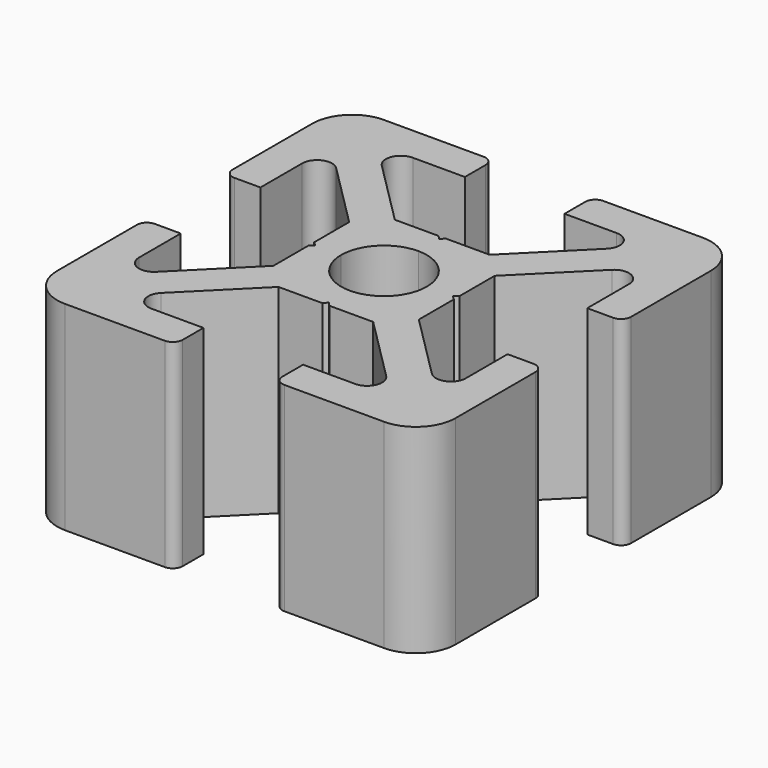
from build123d import *

# Parameters (mm, degrees)
PAD_DEPTH = 10


with BuildPart() as part:
    # CopySketch029 → Pad (new body)
    with BuildSketch(Plane.XY):
        with BuildLine():
            Line((-2.377208, 3.65), (-5.646878, 6.91967))
            ThreePointArc((-5.116548, 8.2), (-5.809457, 7.737013), (-5.646878, 6.91967))
            Line((-5.116548, 8.2), (-2.5, 8.2))
            Line((-2.5, 9.5), (-2.5, 8.2))
            ThreePointArc((-2.5, 9.5), (-2.646447, 9.853553), (-3, 10))
            Line((-3, 10), (-8, 10))
            ThreePointArc((-8, 10), (-9.414214, 9.414214), (-10, 8))
            Line((-10, 8), (-10, 3))
            ThreePointArc((-10, 3), (-9.853553, 2.646447), (-9.5, 2.5))
            Line((-9.5, 2.5), (-8.2, 2.5))
            Line((-8.2, 2.5), (-8.2, 5.116548))
            ThreePointArc((-6.91967, 5.646878), (-7.737013, 5.809457), (-8.2, 5.116548))
            Line((-6.91967, 5.646878), (-3.65, 2.377208))
            Line((-3.65, 2.377208), (-3.65, 0.177208))
            Line((-3.65, 0.177208), (-3.45, 0))
            Line((-3.45, 0), (-2.15, 0))
            ThreePointArc((0, 2.15), (-1.52028, 1.52028), (-2.15, 0))
            Line((0, 3.45), (0, 2.15))
            Line((-0.177208, 3.65), (0, 3.45))
            Line((-0.177208, 3.65), (-2.377208, 3.65))
        make_face()
        with BuildLine():
            Line((2.377208, 3.65), (5.646878, 6.91967))
            ThreePointArc((5.646878, 6.91967), (5.809457, 7.737013), (5.116548, 8.2))
            Line((5.116548, 8.2), (2.5, 8.2))
            Line((2.5, 9.5), (2.5, 8.2))
            ThreePointArc((3, 10), (2.646447, 9.853553), (2.5, 9.5))
            Line((3, 10), (8, 10))
            ThreePointArc((10, 8), (9.414214, 9.414214), (8, 10))
            Line((10, 8), (10, 3))
            ThreePointArc((9.5, 2.5), (9.853553, 2.646447), (10, 3))
            Line((9.5, 2.5), (8.2, 2.5))
            Line((8.2, 2.5), (8.2, 5.116548))
            ThreePointArc((8.2, 5.116548), (7.737013, 5.809457), (6.91967, 5.646878))
            Line((6.91967, 5.646878), (3.65, 2.377208))
            Line((3.65, 2.377208), (3.65, 0.177208))
            Line((3.65, 0.177208), (3.45, 0))
            Line((3.45, 0), (2.15, 0))
            ThreePointArc((2.15, 0), (1.52028, 1.52028), (0, 2.15))
            Line((0, 3.45), (0, 2.15))
            Line((0.177208, 3.65), (0, 3.45))
            Line((0.177208, 3.65), (2.377208, 3.65))
        make_face()
        with BuildLine():
            Line((-2.377208, -3.65), (-5.646878, -6.91967))
            ThreePointArc((-5.646878, -6.91967), (-5.809457, -7.737013), (-5.116548, -8.2))
            Line((-5.116548, -8.2), (-2.5, -8.2))
            Line((-2.5, -9.5), (-2.5, -8.2))
            ThreePointArc((-3, -10), (-2.646447, -9.853553), (-2.5, -9.5))
            Line((-3, -10), (-8, -10))
            ThreePointArc((-10, -8), (-9.414214, -9.414214), (-8, -10))
            Line((-10, -8), (-10, -3))
            ThreePointArc((-9.5, -2.5), (-9.853553, -2.646447), (-10, -3))
            Line((-9.5, -2.5), (-8.2, -2.5))
            Line((-8.2, -2.5), (-8.2, -5.116548))
            ThreePointArc((-8.2, -5.116548), (-7.737013, -5.809457), (-6.91967, -5.646878))
            Line((-6.91967, -5.646878), (-3.65, -2.377208))
            Line((-3.65, -2.377208), (-3.65, -0.177208))
            Line((-3.65, -0.177208), (-3.45, 0))
            Line((-3.45, 0), (-2.15, 0))
            ThreePointArc((-2.15, 0), (-1.52028, -1.52028), (0, -2.15))
            Line((0, -3.45), (0, -2.15))
            Line((-0.177208, -3.65), (0, -3.45))
            Line((-0.177208, -3.65), (-2.377208, -3.65))
        make_face()
        with BuildLine():
            Line((2.377208, -3.65), (5.646878, -6.91967))
            ThreePointArc((5.116548, -8.2), (5.809457, -7.737013), (5.646878, -6.91967))
            Line((5.116548, -8.2), (2.5, -8.2))
            Line((2.5, -9.5), (2.5, -8.2))
            ThreePointArc((2.5, -9.5), (2.646447, -9.853553), (3, -10))
            Line((3, -10), (8, -10))
            ThreePointArc((8, -10), (9.414214, -9.414214), (10, -8))
            Line((10, -8), (10, -3))
            ThreePointArc((10, -3), (9.853553, -2.646447), (9.5, -2.5))
            Line((9.5, -2.5), (8.2, -2.5))
            Line((8.2, -2.5), (8.2, -5.116548))
            ThreePointArc((6.91967, -5.646878), (7.737013, -5.809457), (8.2, -5.116548))
            Line((6.91967, -5.646878), (3.65, -2.377208))
            Line((3.65, -2.377208), (3.65, -0.177208))
            Line((3.65, -0.177208), (3.45, 0))
            Line((3.45, 0), (2.15, 0))
            ThreePointArc((0, -2.15), (1.52028, -1.52028), (2.15, 0))
            Line((0, -3.45), (0, -2.15))
            Line((0.177208, -3.65), (0, -3.45))
            Line((0.177208, -3.65), (2.377208, -3.65))
        make_face()
    extrude(amount=PAD_DEPTH)


solid = part.part
